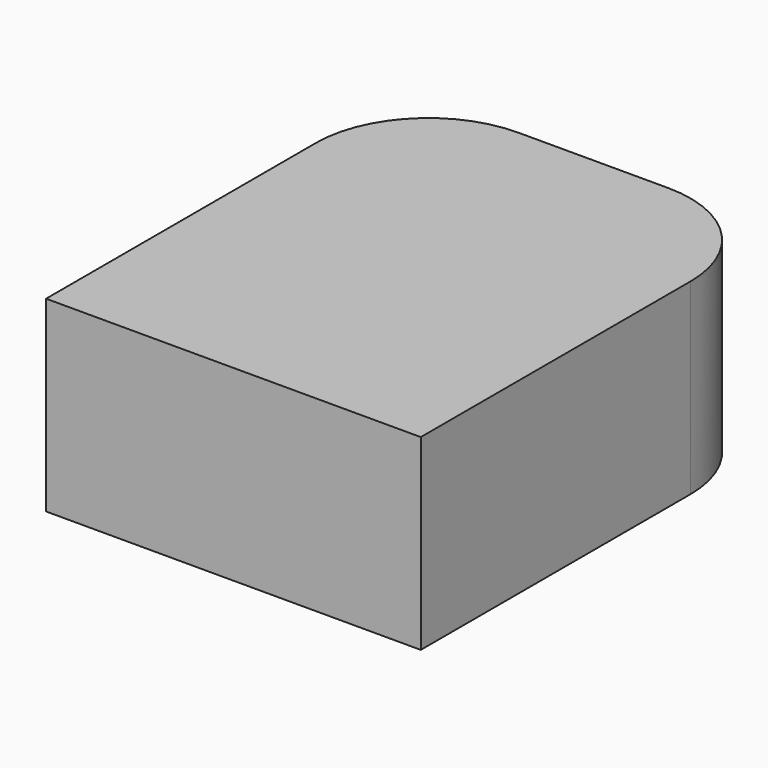
from build123d import *

# Parameters (mm, degrees)
F0_W     = 254
F0_H     = 127
F1_DEPTH = 304.8
F2_R     = 76.2


with BuildPart() as f1:
    # F0 (on Front) → F1 (new body)
    with BuildSketch(Plane.XZ):
        Rectangle(F0_W, F0_H)
    extrude(amount=F1_DEPTH)

    # F2
    f2_edges = [f1.edges().sort_by_distance(p)[0] for p in [
        (-127, 0, 0),
        (127, 0, 0),
    ]]
    fillet(f2_edges, radius=F2_R)


solid = f1.part
